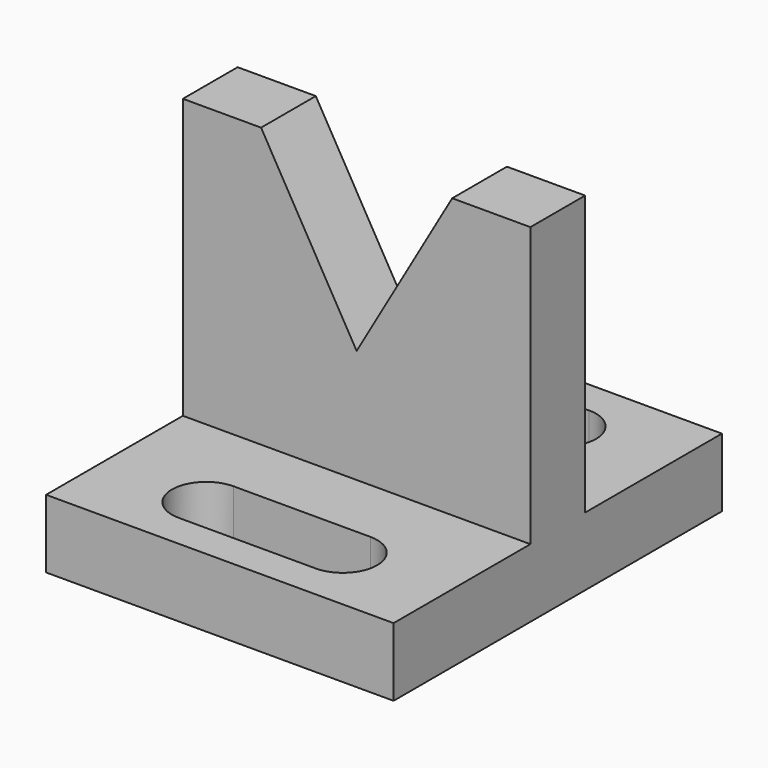
from build123d import *

# Parameters (mm, degrees)
F1_DEPTH = 2.5
F2_W     = 25.4
F2_H     = 12.5
F3_DEPTH = 5


with BuildPart() as f1:
    # F0 (on Front) → F1 (new body, symmetric)
    with BuildSketch(Plane.XZ):
        Polygon((-6.985, -1.901625), (-12.7, -1.901625), (-12.7, -27.301625), (12.7, -27.301625), (12.7, -1.901625), (6.985, -1.901625), (0, -14), align=None)
    extrude(amount=F1_DEPTH, both=True)

    # F2 (on face) → F3 (join)
    with BuildSketch(Plane(origin=(0, 0, -27.301625), x_dir=(1, 0, 0), z_dir=(0, 0, -1))):
        with Locations((0, 8.75)):
            Rectangle(F2_W, F2_H)
        with BuildLine():
            Line((5, 7.5), (-5, 7.5))
            ThreePointArc((-5, 7.5), (-7.5, 10), (-5, 12.5))
            Line((-5, 12.5), (5, 12.5))
            ThreePointArc((5, 12.5), (7.5, 10), (5, 7.5))
        make_face(mode=Mode.SUBTRACT)
        with Locations((0, -8.75)):
            Rectangle(F2_W, F2_H)
        with BuildLine():
            Line((-5, -7.5), (5, -7.5))
            ThreePointArc((5, -7.5), (7.5, -10), (5, -12.5))
            Line((5, -12.5), (-5, -12.5))
            ThreePointArc((-5, -12.5), (-7.5, -10), (-5, -7.5))
        make_face(mode=Mode.SUBTRACT)
    extrude(amount=-F3_DEPTH)


solid = f1.part
